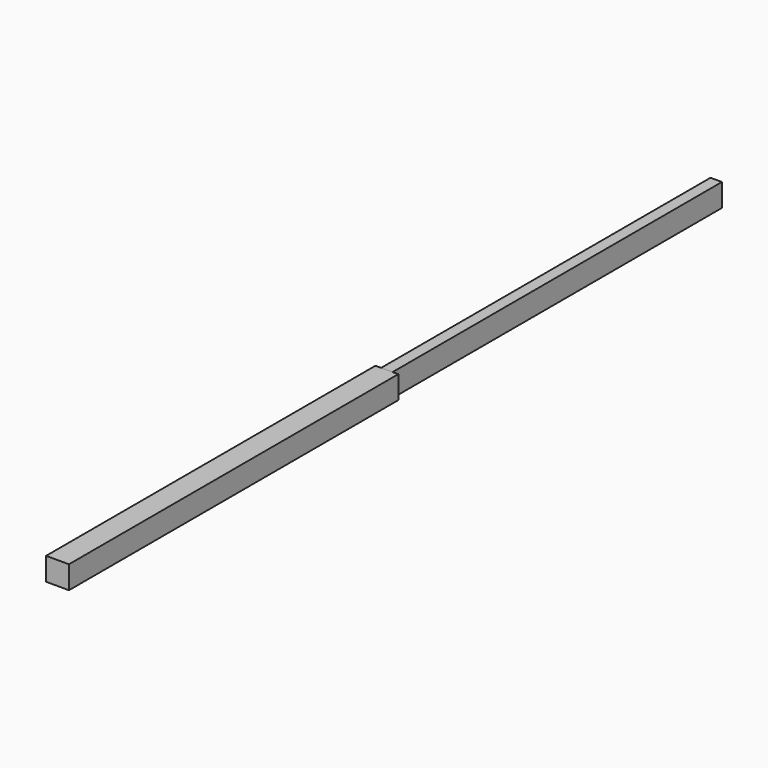
from build123d import *

# Parameters (mm, degrees)
F0_W     = 1828.8
F0_H     = 101.6
F1_DEPTH = 101.6
F2_W     = 25.4
F2_H     = 101.6
F3_DEPTH = 1828.8


with BuildPart() as f1:
    # F0 (on Right) → F1 (new body)
    with BuildSketch(Plane.YZ):
        with Locations((-880.628759, -275.477676)):
            Rectangle(F0_W, F0_H)
    extrude(amount=F1_DEPTH)


with BuildPart() as f3:
    # F2 (on face) → F3 (new body)
    with BuildSketch(Plane(origin=(0, 33.771241, 0), x_dir=(-1, 0, 0), z_dir=(0, 1, 0))):
        with Locations((-63.5, -275.477676)):
            Rectangle(F2_W, F2_H)
        with Locations((-38.1, -275.477676)):
            Rectangle(F2_W, F2_H)
    extrude(amount=F3_DEPTH)


solid = Compound([f1.part, f3.part])
